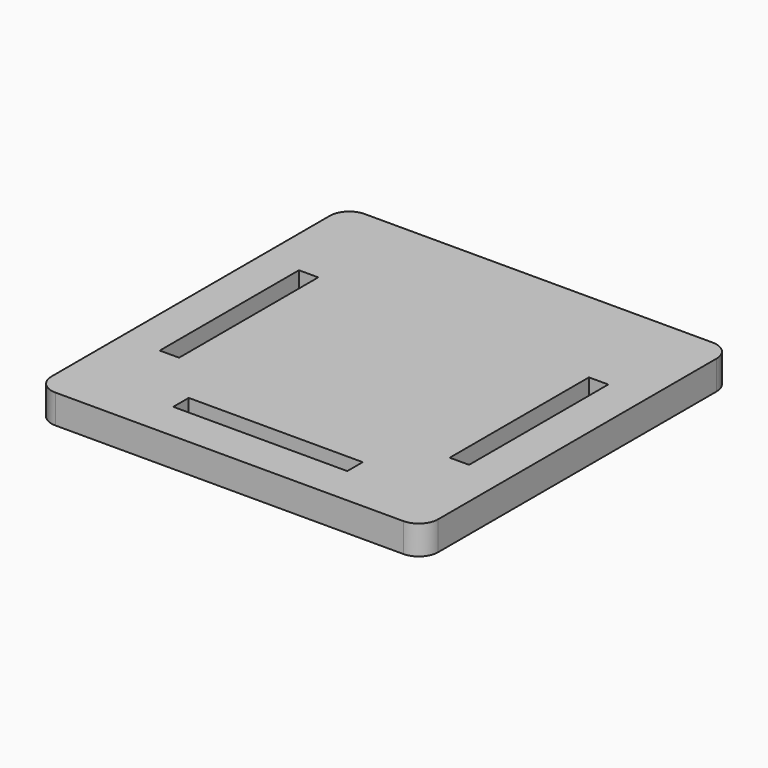
from build123d import *

# Parameters (mm, degrees)
F0_W     = 40
F0_H     = 40
F0_W_2   = 18
F0_H_2   = 2
F0_W_3   = 2
F0_H_3   = 18
F1_DEPTH = 3
F2_R     = 2


with BuildPart() as f1:
    # F0 (on Top) → F1 (new body)
    with BuildSketch(Plane.XY):
        Rectangle(F0_W, F0_H)
        with Locations((0, -15)):
            Rectangle(F0_W_2, F0_H_2, mode=Mode.SUBTRACT)
        with Locations((-15, 0)):
            Rectangle(F0_W_3, F0_H_3, mode=Mode.SUBTRACT)
        with Locations((15, 0)):
            Rectangle(F0_W_3, F0_H_3, mode=Mode.SUBTRACT)
    extrude(amount=F1_DEPTH)

    # F2
    f2_edges = [f1.edges().sort_by_distance(p)[0] for p in [
        (20, -20, 1.5),
        (-20, -20, 1.5),
        (-20, 20, 1.5),
        (20, 20, 1.5),
    ]]
    fillet(f2_edges, radius=F2_R)


solid = f1.part
